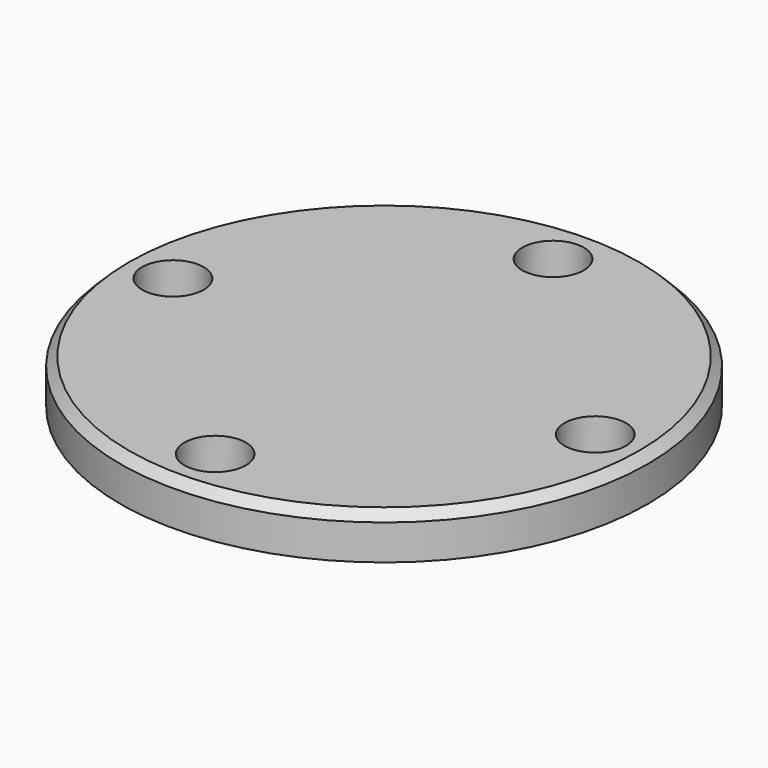
from build123d import *

# Parameters (mm, degrees)
F0_R     = 15
F0_R_2   = 1.75
F0_R_3   = 6.5
F1_DEPTH = 2.5
F2_SIZE  = 0.5


with BuildPart() as f1:
    # F0 (on Top) → F1 (new body)
    with BuildSketch(Plane.XY):
        Circle(F0_R)
        with Locations((0, -12)):
            Circle(F0_R_2, mode=Mode.SUBTRACT)
        with Locations((-12, 0)):
            Circle(F0_R_2, mode=Mode.SUBTRACT)
        Circle(F0_R_3, mode=Mode.SUBTRACT)
        with Locations((12, 0)):
            Circle(F0_R_2, mode=Mode.SUBTRACT)
        with Locations((0, 12)):
            Circle(F0_R_2, mode=Mode.SUBTRACT)
        Circle(F0_R_3)
    extrude(amount=F1_DEPTH)

    # F2
    f2_edges = [f1.edges().sort_by_distance(p)[0] for p in [
        (-15, 0, 2.5),
    ]]
    chamfer(f2_edges, length=F2_SIZE)


solid = f1.part
